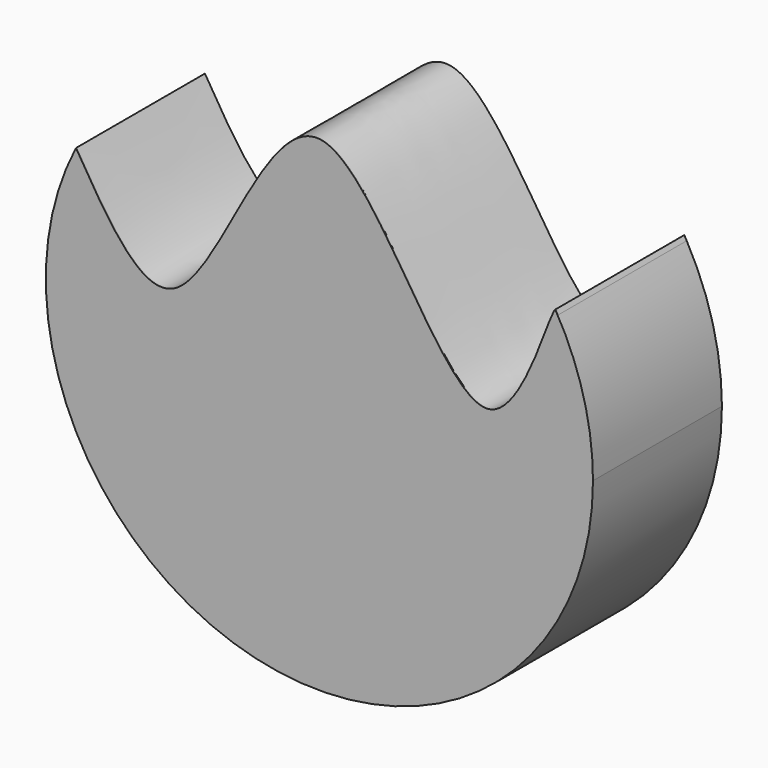
from build123d import *

# Parameters (mm, degrees)
F1_DEPTH = 44.45
F2_DEPTH = 0.254


with BuildPart() as f1:
    # F0 (on Front) → F1 (new body)
    with BuildSketch(Plane.XZ):
        with BuildLine():
            ThreePointArc((-67.5157198061, 34.6198661619), (-17.8073074362, -73.7550496975), (75.8742878319, 0))
            ThreePointArc((75.8742878319, 0), (73.3910974679, 19.2523859939), (66.1040645574, 37.2445996487))
            ThreePointArc((66.1040645574, 37.2445996487), (65.7694320504, 37.8323850924), (65.4295731984, 38.4171641987))
            add(Edge.make_bspline(
                [(-67.5157198061, 34.6198661619), (-58.2574936168, 19.2251392084), (-36.9273791404, -16.160688508), (-1.7534722916, 105.4551710075), (46.4907735871, -29.6339272303), (63.5462416748, 36.9645098768), (65.4295731984, 38.4171641987)],
                knots=[0, 0, 0, 0, 0.2076443236, 0.4768428996, 0.7584424902, 0.9605768322, 0.9605768322, 0.9605768322, 0.9605768322], degree=3))
        make_face()
    extrude(amount=F1_DEPTH)

    # F1_face (on face) → F2 (join)
    with BuildSketch(Plane(origin=(0.2465200318, -44.45, -15.645648347), x_dir=(1, 0, 0), z_dir=(0, -1, 0))):
        with BuildLine():
            add(Edge.make_bspline(
                [(-67.7622398379, 50.2655145089), (-58.5040136486, 34.8707875554), (-37.1738991722, -0.515040161), (-1.9999923234, 121.1008193545), (46.2442535553, -13.9882788833), (63.299721643, 52.6101582238), (65.1830531666, 54.0628125457)],
                knots=[0, 0, 0, 0, 0.2076443236, 0.4768428996, 0.7584424902, 0.9605768322, 0.9605768322, 0.9605768322, 0.9605768322], degree=3))
            ThreePointArc((-67.7622398379, 50.2655145089), (-18.053827468, -58.1094013505), (75.6277678001, 15.645648347))
            ThreePointArc((75.6277678002, 15.645648347), (72.9700416998, 35.5514927705), (65.1830531666, 54.0628125457))
        make_face()
    extrude(amount=F2_DEPTH)


solid = f1.part
